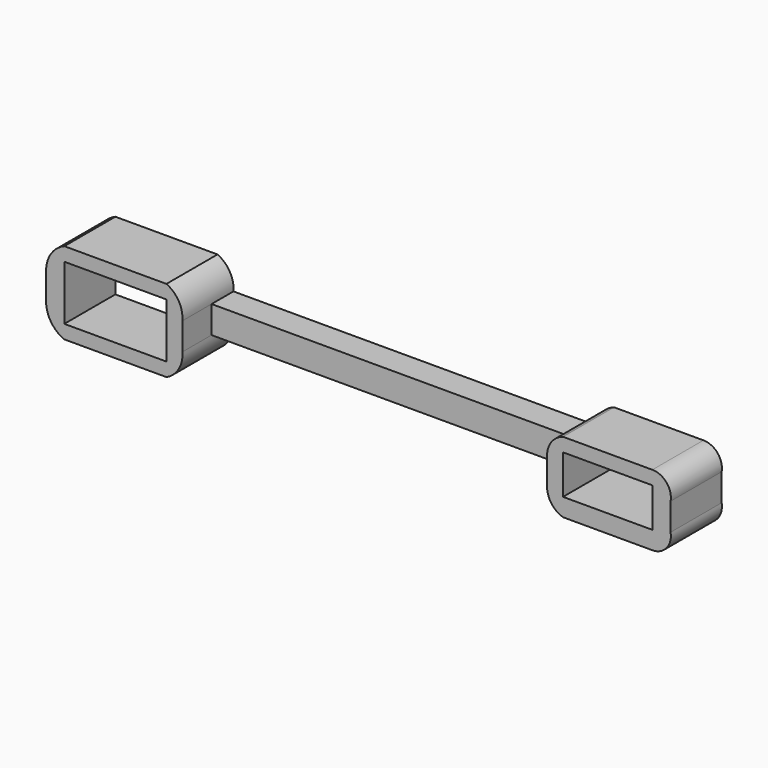
from build123d import *

# Parameters (mm, degrees)
F0_W     = 0.75
F0_H     = 3
F0_W_2   = 11.2
F0_H_2   = 1.5
F1_DEPTH = 7
F0_W_3   = 40
F2_DEPTH = 3
F0_W_4   = 9.8
F0_H_3   = 1.969696
F3_DEPTH = 7


with BuildPart() as f1:
    # F0 (on Front) → F1 (new body)
    with BuildSketch(Plane.XZ):
        with BuildLine():
            Line((-40.368542, 4.5), (-40.368542, 6))
            ThreePointArc((-40.368542, 6), (-41.822706, 4.802776), (-42.368542, 3))
            Line((-42.368542, 3), (-41.618542, 3))
            ThreePointArc((-41.618542, 3), (-41.166325, 3.893986), (-40.368542, 4.5))
        make_face()
        with Locations((-41.993542, 1.5)):
            Rectangle(F0_W, F0_H)
        with BuildLine():
            ThreePointArc((-42.368542, 0), (-41.822706, -1.802776), (-40.368542, -3))
            Line((-40.368542, -3), (-40.368542, -1.5))
            ThreePointArc((-40.368542, -1.5), (-41.162473, -0.890775), (-41.618542, 0))
            Line((-41.618542, 0), (-42.368542, 0))
        make_face()
        with Locations((-34.768542, -2.25)):
            Rectangle(F0_W_2, F0_H_2)
        with BuildLine():
            ThreePointArc((-29.168542, -3), (-27.815266, -1.778994), (-27.418542, 0))
            Line((-27.418542, 0), (-27.418542, 3))
            ThreePointArc((-27.418542, 3), (-27.815266, 4.778994), (-29.168542, 6))
            Line((-29.168542, 6), (-29.168542, 4.5))
            Line((-29.168542, 4.5), (-29.168542, -1.5))
            Line((-29.168542, -1.5), (-29.168542, -3))
        make_face()
        with Locations((-34.768542, 5.25)):
            Rectangle(F0_W_2, F0_H_2)
        with BuildLine():
            ThreePointArc((-41.618542, 0), (-41.162473, -0.890775), (-40.368542, -1.5))
            Line((-40.368542, -1.5), (-40.368542, 4.5))
            ThreePointArc((-40.368542, 4.5), (-41.166325, 3.893986), (-41.618542, 3))
            Line((-41.618542, 3), (-41.618542, 0))
        make_face()
    extrude(amount=F1_DEPTH)

    # F0 (on Front) → F2 (join)
    with BuildSketch(Plane.XZ):
        with Locations((-7.418542, 1.5)):
            Rectangle(F0_W_3, F0_H)
    extrude(amount=F2_DEPTH)

    # F0 (on Front) → F3 (join)
    with BuildSketch(Plane.XZ):
        with BuildLine():
            Line((12.581458, 3), (12.581458, 0))
            ThreePointArc((12.581458, 0), (13.065893, -1.47902), (14.331458, -2.384848))
            Line((14.331458, -2.384848), (14.331458, -0.415152))
            Line((14.331458, -0.415152), (14.331458, 3.884848))
            Line((14.331458, 3.884848), (14.331458, 5.384848))
            ThreePointArc((14.331458, 5.384848), (13.065893, 4.47902), (12.581458, 3))
        make_face()
        with Locations((19.231458, -1.4)):
            Rectangle(F0_W_4, F0_H_3)
        with BuildLine():
            Line((24.131458, -0.415152), (24.131458, -2.384848))
            ThreePointArc((24.131458, -2.384848), (25.687695, -1.6589), (26.131458, 0))
            Line((26.131458, 0), (25.381458, 0))
            Line((25.381458, 0), (25.381458, 3))
            Line((25.381458, 3), (26.131458, 3))
            ThreePointArc((26.131458, 3), (25.687695, 4.6589), (24.131458, 5.384848))
            Line((24.131458, 5.384848), (24.131458, 3.884848))
            Line((24.131458, 3.884848), (24.131458, -0.415152))
        make_face()
        with Locations((25.756458, 1.5)):
            Rectangle(F0_W, F0_H)
        with Locations((19.231458, 4.634848)):
            Rectangle(F0_W_4, F0_H_2)
    extrude(amount=F3_DEPTH)


solid = f1.part
